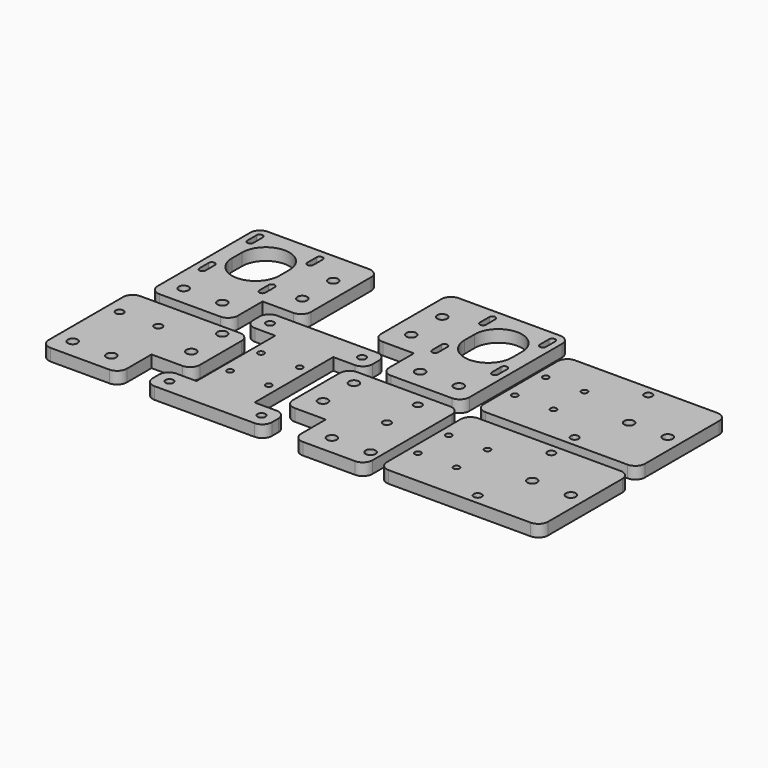
from build123d import *

# Parameters (mm, degrees)
F0_R     = 2.55
F0_R_2   = 2.05
F0_R_3   = 1.5875
F1_DEPTH = 6.25


with BuildPart() as f1:
    # F0 (on Top) → F1 (new body)
    with BuildSketch(Plane.XY):
        with BuildLine():
            ThreePointArc((-11.072041, -242.451419), (-7.536507, -240.986953), (-6.072041, -237.451419))
            Line((-6.072041, -237.451419), (-6.072041, -210.451419))
            ThreePointArc((-6.072041, -210.451419), (-7.536507, -206.915885), (-11.072041, -205.451419))
            Line((-11.072041, -205.451419), (-62.426449, -205.451419))
            ThreePointArc((-62.426449, -205.451419), (-65.961983, -206.915885), (-67.426449, -210.451419))
            Line((-67.426449, -210.451419), (-67.426449, -258.451419))
            ThreePointArc((-67.426449, -258.451419), (-65.961983, -261.986953), (-62.426449, -263.451419))
            Line((-62.426449, -263.451419), (-32.072041, -263.451419))
            ThreePointArc((-32.072041, -263.451419), (-28.536507, -261.986953), (-27.072041, -258.451419))
            Line((-27.072041, -258.451419), (-27.072041, -242.451419))
            Line((-27.072041, -242.451419), (-11.072041, -242.451419))
        make_face()
        with Locations((-59.072041, -253.451419)):
            Circle(F0_R, mode=Mode.SUBTRACT)
        with Locations((-39.072041, -253.451419)):
            Circle(F0_R, mode=Mode.SUBTRACT)
        with Locations((-60.376449, -221.451419)):
            Circle(F0_R_2, mode=Mode.SUBTRACT)
        with Locations((-40.376449, -221.451419)):
            Circle(F0_R_2, mode=Mode.SUBTRACT)
        with Locations((-16.072041, -230.451419)):
            Circle(F0_R, mode=Mode.SUBTRACT)
        with Locations((-16.072041, -210.451419)):
            Circle(F0_R, mode=Mode.SUBTRACT)
        with BuildLine():
            Line((1.701468, -198.381873), (1.701468, -249.281873))
            Line((1.701468, -249.281873), (-8.700011, -249.281873))
            ThreePointArc((-8.700011, -249.281873), (-12.235545, -250.746339), (-13.700011, -254.281873))
            Line((-13.700011, -254.281873), (-13.700011, -258.381873))
            ThreePointArc((-13.700011, -258.381873), (-12.235545, -261.917407), (-8.700011, -263.381873))
            Line((-8.700011, -263.381873), (42.999989, -263.381873))
            ThreePointArc((42.999989, -263.381873), (46.535523, -261.917407), (47.999989, -258.381873))
            Line((47.999989, -258.381873), (47.999989, -254.281873))
            ThreePointArc((47.999989, -254.281873), (46.535523, -250.746339), (42.999989, -249.281873))
            Line((42.999989, -249.281873), (31.701468, -249.281873))
            Line((31.701468, -249.281873), (31.701468, -198.381873))
            Line((31.701468, -198.381873), (42.999989, -198.381873))
            ThreePointArc((42.999989, -198.381873), (46.535523, -196.917407), (47.999989, -193.381873))
            Line((47.999989, -193.381873), (47.999989, -189.281873))
            ThreePointArc((47.999989, -189.281873), (46.535523, -185.746339), (42.999989, -184.281873))
            Line((42.999989, -184.281873), (-8.700011, -184.281873))
            ThreePointArc((-8.700011, -184.281873), (-12.235545, -185.746339), (-13.700011, -189.281873))
            Line((-13.700011, -189.281873), (-13.700011, -193.381873))
            ThreePointArc((-13.700011, -193.381873), (-12.235545, -196.917407), (-8.700011, -198.381873))
            Line((-8.700011, -198.381873), (1.701468, -198.381873))
        make_face()
        with Locations((-6.650011, -256.331873)):
            Circle(F0_R_2, mode=Mode.SUBTRACT)
        with Locations((40.949989, -256.331873)):
            Circle(F0_R_2, mode=Mode.SUBTRACT)
        with Locations((6.701468, -233.831873)):
            Circle(F0_R_3, mode=Mode.SUBTRACT)
        with Locations((26.701468, -233.831873)):
            Circle(F0_R_3, mode=Mode.SUBTRACT)
        with Locations((6.701468, -213.831873)):
            Circle(F0_R_3, mode=Mode.SUBTRACT)
        with Locations((26.701468, -213.831873)):
            Circle(F0_R_3, mode=Mode.SUBTRACT)
        with Locations((-6.650011, -191.331873)):
            Circle(F0_R_2, mode=Mode.SUBTRACT)
        with Locations((40.949989, -191.331873)):
            Circle(F0_R_2, mode=Mode.SUBTRACT)
        with BuildLine():
            ThreePointArc((-5, -178.245777), (-1.464466, -176.781311), (0, -173.245777))
            Line((0, -173.245777), (0, -134.248008))
            ThreePointArc((0, -134.248008), (-1.464466, -130.712474), (-5, -129.248008))
            Line((-5, -129.248008), (-57.499998, -129.248008))
            ThreePointArc((-57.499998, -129.248008), (-61.035532, -130.712474), (-62.499998, -134.248008))
            Line((-62.499998, -134.248008), (-62.499998, -194.245777))
            ThreePointArc((-62.499998, -194.245777), (-61.035532, -197.781311), (-57.499998, -199.245777))
            Line((-57.499998, -199.245777), (-26, -199.245777))
            ThreePointArc((-26, -199.245777), (-22.464466, -197.781311), (-21, -194.245777))
            Line((-21, -194.245777), (-21, -178.245777))
            Line((-21, -178.245777), (-5, -178.245777))
        make_face()
        with Locations((-53, -189.245777)):
            Circle(F0_R, mode=Mode.SUBTRACT)
        with Locations((-33, -189.245777)):
            Circle(F0_R, mode=Mode.SUBTRACT)
        with BuildLine():
            Line((-55.912516, -165.435704), (-55.912523, -171.436989))
            ThreePointArc((-55.912523, -171.436989), (-57.499998, -173.024462), (-59.087473, -171.436989))
            Line((-59.087473, -171.436989), (-59.08748, -165.435704))
            ThreePointArc((-59.08748, -165.435704), (-57.499998, -163.84822), (-55.912516, -165.435704))
        make_face(mode=Mode.SUBTRACT)
        with BuildLine():
            Line((-24.912561, -165.413885), (-24.912499, -171.430231))
            ThreePointArc((-24.912499, -171.430231), (-26.499998, -173.017746), (-28.087496, -171.430231))
            Line((-28.087496, -171.430231), (-28.087434, -165.413885))
            ThreePointArc((-28.087434, -165.413885), (-26.499998, -163.826465), (-24.912561, -165.413885))
        make_face(mode=Mode.SUBTRACT)
        with Locations((-10, -166.245777)):
            Circle(F0_R, mode=Mode.SUBTRACT)
        with BuildLine():
            ThreePointArc((-29.75, -156.425871), (-42, -168.675871), (-54.25, -156.425871))
            Line((-54.25, -156.425871), (-54.25, -149.925871))
            ThreePointArc((-54.25, -149.925871), (-42, -137.675871), (-29.75, -149.925871))
            Line((-29.75, -149.925871), (-29.75, -156.425871))
        make_face(mode=Mode.SUBTRACT)
        with Locations((-10, -146.245777)):
            Circle(F0_R, mode=Mode.SUBTRACT)
        with BuildLine():
            Line((-55.913044, -134.469762), (-55.913276, -140.477799))
            ThreePointArc((-55.913276, -140.477799), (-57.499957, -142.064587), (-59.086744, -140.477906))
            Line((-59.086744, -140.477906), (-59.086945, -134.469868))
            ThreePointArc((-59.086945, -134.469868), (-57.500048, -132.882864), (-55.913044, -134.469762))
        make_face(mode=Mode.SUBTRACT)
        with BuildLine():
            ThreePointArc((-24.913227, -140.476205), (-26.48108, -142.062127), (-28.08523, -140.512929))
            Line((-28.08523, -140.512929), (-28.086973, -134.468921))
            ThreePointArc((-28.086973, -134.468921), (-26.517351, -132.846572), (-24.912509, -134.434091))
            Line((-24.912509, -134.434091), (-24.913227, -140.476205))
        make_face(mode=Mode.SUBTRACT)
        with BuildLine():
            ThreePointArc((63.473548, -258.970345), (64.938014, -262.505879), (68.473548, -263.970345))
            Line((68.473548, -263.970345), (95.473548, -263.970345))
            ThreePointArc((95.473548, -263.970345), (99.009082, -262.505879), (100.473548, -258.970345))
            Line((100.473548, -258.970345), (100.473548, -207.615937))
            ThreePointArc((100.473548, -207.615937), (99.009082, -204.080403), (95.473548, -202.615937))
            Line((95.473548, -202.615937), (47.473548, -202.615937))
            ThreePointArc((47.473548, -202.615937), (43.938014, -204.080403), (42.473548, -207.615937))
            Line((42.473548, -207.615937), (42.473548, -237.970345))
            ThreePointArc((42.473548, -237.970345), (43.938014, -241.505879), (47.473548, -242.970345))
            Line((47.473548, -242.970345), (63.473548, -242.970345))
            Line((63.473548, -242.970345), (63.473548, -258.970345))
        make_face()
        with Locations((52.473548, -230.970345)):
            Circle(F0_R, mode=Mode.SUBTRACT)
        with Locations((52.473548, -210.970345)):
            Circle(F0_R, mode=Mode.SUBTRACT)
        with Locations((75.473548, -253.970345)):
            Circle(F0_R, mode=Mode.SUBTRACT)
        with Locations((95.473548, -253.970345)):
            Circle(F0_R, mode=Mode.SUBTRACT)
        with Locations((84.473548, -229.665937)):
            Circle(F0_R_2, mode=Mode.SUBTRACT)
        with Locations((84.473548, -209.665937)):
            Circle(F0_R_2, mode=Mode.SUBTRACT)
        with BuildLine():
            Line((91.624156, -126.479939), (39.124158, -126.479939))
            ThreePointArc((39.124158, -126.479939), (35.588624, -127.944405), (34.124158, -131.479939))
            Line((34.124158, -131.479939), (34.124158, -170.477708))
            ThreePointArc((34.124158, -170.477708), (35.588624, -174.013242), (39.124158, -175.477708))
            Line((39.124158, -175.477708), (55.124158, -175.477708))
            Line((55.124158, -175.477708), (55.124158, -191.477708))
            ThreePointArc((55.124158, -191.477708), (56.588624, -195.013242), (60.124158, -196.477708))
            Line((60.124158, -196.477708), (91.624156, -196.477708))
            ThreePointArc((91.624156, -196.477708), (95.15969, -195.013242), (96.624156, -191.477708))
            Line((96.624156, -191.477708), (96.624156, -131.479939))
            ThreePointArc((96.624156, -131.479939), (95.15969, -127.944405), (91.624156, -126.479939))
        make_face()
        with Locations((44.124158, -163.477708)):
            Circle(F0_R, mode=Mode.SUBTRACT)
        with BuildLine():
            Line((59.036657, -168.662162), (59.036719, -162.645816))
            ThreePointArc((59.036719, -162.645816), (60.624156, -161.058396), (62.211592, -162.645816))
            Line((62.211592, -162.645816), (62.211654, -168.662162))
            ThreePointArc((62.211654, -168.662162), (60.624156, -170.249677), (59.036657, -168.662162))
        make_face(mode=Mode.SUBTRACT)
        with Locations((44.124158, -143.477708)):
            Circle(F0_R, mode=Mode.SUBTRACT)
        with BuildLine():
            Line((62.211131, -131.700853), (62.209388, -137.74486))
            ThreePointArc((62.209388, -137.74486), (60.605238, -139.294058), (59.037385, -137.708136))
            Line((59.037385, -137.708136), (59.036667, -131.666022))
            ThreePointArc((59.036667, -131.666022), (60.641509, -130.078504), (62.211131, -131.700853))
        make_face(mode=Mode.SUBTRACT)
        with Locations((67.124158, -186.477708)):
            Circle(F0_R, mode=Mode.SUBTRACT)
        with Locations((87.124158, -186.477708)):
            Circle(F0_R, mode=Mode.SUBTRACT)
        with BuildLine():
            ThreePointArc((93.211631, -168.66892), (91.624156, -170.256393), (90.036681, -168.66892))
            Line((90.036681, -168.66892), (90.036674, -162.667635))
            ThreePointArc((90.036674, -162.667635), (91.624156, -161.080151), (93.211637, -162.667635))
            Line((93.211637, -162.667635), (93.211631, -168.66892))
        make_face(mode=Mode.SUBTRACT)
        with BuildLine():
            ThreePointArc((88.374158, -153.657803), (76.124158, -165.907803), (63.874158, -153.657803))
            Line((63.874158, -153.657803), (63.874158, -147.157803))
            ThreePointArc((63.874158, -147.157803), (76.124158, -134.907803), (88.374158, -147.157803))
            Line((88.374158, -147.157803), (88.374158, -153.657803))
        make_face(mode=Mode.SUBTRACT)
        with BuildLine():
            Line((90.037434, -137.70973), (90.037202, -131.701693))
            ThreePointArc((90.037202, -131.701693), (91.624206, -130.114795), (93.211103, -131.701799))
            Line((93.211103, -131.701799), (93.210902, -137.709837))
            ThreePointArc((93.210902, -137.709837), (91.624114, -139.296518), (90.037434, -137.70973))
        make_face(mode=Mode.SUBTRACT)
        with BuildLine():
            Line((189.461535, -256.661589), (189.461535, -208.661589))
            ThreePointArc((189.461535, -208.661589), (187.997069, -205.126055), (184.461535, -203.661589))
            Line((184.461535, -203.661589), (110.866656, -203.661589))
            ThreePointArc((110.866656, -203.661589), (107.325154, -205.132033), (105.866684, -208.678482))
            Line((105.866684, -208.678482), (106.028856, -256.678482))
            ThreePointArc((106.028856, -256.678482), (107.499271, -260.203091), (111.028828, -261.661589))
            Line((111.028828, -261.661589), (184.461535, -261.661589))
            ThreePointArc((184.461535, -261.661589), (187.997069, -260.197123), (189.461535, -256.661589))
        make_face()
        with Locations((110.913956, -242.661589)):
            Circle(F0_R_3, mode=Mode.SUBTRACT)
        with Locations((152.913956, -256.461589)):
            Circle(F0_R_2, mode=Mode.SUBTRACT)
        with Locations((130.913956, -242.661589)):
            Circle(F0_R_3, mode=Mode.SUBTRACT)
        with Locations((162.060386, -232.661589)):
            Circle(F0_R, mode=Mode.SUBTRACT)
        with Locations((182.060386, -232.661589)):
            Circle(F0_R, mode=Mode.SUBTRACT)
        with Locations((110.913956, -222.661589)):
            Circle(F0_R_3, mode=Mode.SUBTRACT)
        with Locations((130.913956, -222.661589)):
            Circle(F0_R_3, mode=Mode.SUBTRACT)
        with Locations((152.913956, -208.861589)):
            Circle(F0_R_2, mode=Mode.SUBTRACT)
        with BuildLine():
            Line((188.351659, -192.585046), (188.351659, -144.585046))
            ThreePointArc((188.351659, -144.585046), (186.887193, -141.049512), (183.351659, -139.585046))
            Line((183.351659, -139.585046), (109.75678, -139.585046))
            ThreePointArc((109.75678, -139.585046), (106.215279, -141.05549), (104.756809, -144.601939))
            Line((104.756809, -144.601939), (104.918981, -192.601939))
            ThreePointArc((104.918981, -192.601939), (106.389396, -196.126548), (109.918952, -197.585046))
            Line((109.918952, -197.585046), (183.351659, -197.585046))
            ThreePointArc((183.351659, -197.585046), (186.887193, -196.12058), (188.351659, -192.585046))
        make_face()
        with Locations((109.80408, -178.585046)):
            Circle(F0_R_3, mode=Mode.SUBTRACT)
        with Locations((151.80408, -192.385046)):
            Circle(F0_R_2, mode=Mode.SUBTRACT)
        with Locations((129.80408, -178.585046)):
            Circle(F0_R_3, mode=Mode.SUBTRACT)
        with Locations((160.95051, -168.585046)):
            Circle(F0_R, mode=Mode.SUBTRACT)
        with Locations((180.95051, -168.585046)):
            Circle(F0_R, mode=Mode.SUBTRACT)
        with Locations((109.80408, -158.585046)):
            Circle(F0_R_3, mode=Mode.SUBTRACT)
        with Locations((129.80408, -158.585046)):
            Circle(F0_R_3, mode=Mode.SUBTRACT)
        with Locations((151.80408, -144.785046)):
            Circle(F0_R_2, mode=Mode.SUBTRACT)
    extrude(amount=F1_DEPTH)


solid = f1.part
